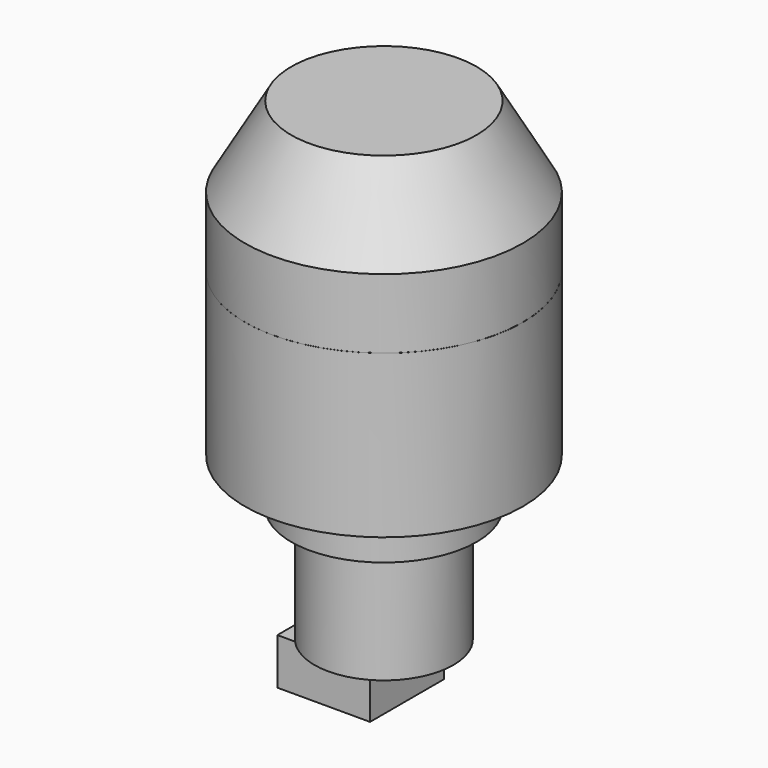
from build123d import *

# Parameters (mm, degrees)
F0_W     = 9.525
F0_H     = 12.7
F0_W_2   = 3.175
F1_DEPTH = 6.35
F2_R     = 9.525
F3_DEPTH = 15.875
F4_R     = 12.7
F5_DEPTH = 6.35
F6_R     = 19.05
F7_DEPTH = 22.225


with BuildPart() as f1:
    # F0 (on Top) → F1 (new body)
    with BuildSketch(Plane.XY):
        with Locations((4.7625, 6.35)):
            Rectangle(F0_W, F0_H)
        with Locations((11.1125, 6.35)):
            Rectangle(F0_W_2, F0_H)
    extrude(amount=F1_DEPTH)

    # F2 (on face) → F3 (join)
    with BuildSketch(Plane.XY.offset(6.35)):
        with Locations((9.525, 6.35)):
            Circle(F2_R)
    extrude(amount=F3_DEPTH)

    # F4 (on face) → F5 (join)
    with BuildSketch(Plane.XY.offset(22.225)):
        with Locations((9.525, 6.35)):
            Circle(F4_R)
    extrude(amount=F5_DEPTH)

    # F6 (on face) → F7 (join)
    with BuildSketch(Plane.XY.offset(28.575)):
        with Locations((9.525, 6.35)):
            Circle(F6_R)
    extrude(amount=F7_DEPTH)


with BuildPart() as f10:
    # F9 (on face) → F10 (revolve)
    with BuildSketch(Plane(origin=(0, 6.35, 0), x_dir=(-1, 0, 0), z_dir=(0, 1, 0))):
        Polygon((-28.5749696195, 60.3376733482), (-28.5749696195, 50.8126733482), (-9.5249661244, 50.8063773453), (-9.5181810445, 71.3361959763), (-22.2249696195, 71.3361959763), align=None)
    revolve(axis=Axis((9.5215735845, 6.35, 61.0712866608), (-0.0003304988, 0, 0.9999999454)))


solid = Compound([f1.part, f10.part])
